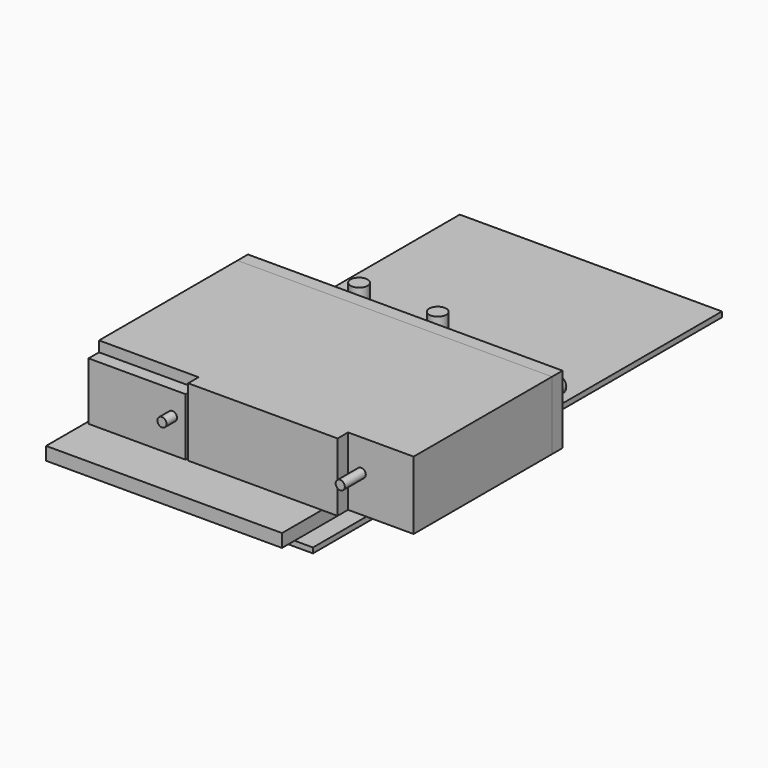
from build123d import *

# Parameters (mm, degrees)
CYLINDER001_R             = 3.25
CYLINDER001_DEPTH         = 10
CYLINDER_R                = 3.25
CYLINDER_DEPTH            = 10
BOX_W                     = 100
BOX_H                     = 195
BOX_DEPTH                 = 2
CYLINDER005_R             = 1.75
CYLINDER005_DEPTH         = 10
CYLINDER004_R             = 1.75
CYLINDER004_DEPTH         = 10
BOX005_W                  = 40
BOX005_H                  = 17
BOX005_DEPTH              = 18
BOX004_W                  = 19
BOX004_H                  = 6.5
BOX004_DEPTH              = 18
BOX003_W                  = 7
BOX003_H                  = 5
BOX003_DEPTH              = 6
CYLINDER002_R             = 3.125
CYLINDER002_DEPTH         = 18.5
BOX001_W                  = 66
BOX001_H                  = 120
BOX001_DEPTH              = 26
CYLINDER003_R             = 3.125
CYLINDER003_DEPTH         = 18.5
BOX002_W                  = 5.6
BOX002_H                  = 57
BOX002_DEPTH              = 26
FUSION002_PLACEMENT_ANGLE = 270
CYLINDER006_R             = 3.25
CYLINDER006_DEPTH         = 30
CYLINDER007_R             = 3.25
CYLINDER007_DEPTH         = 30
BOX006_W                  = 16
BOX006_H                  = 39.5
BOX006_DEPTH              = 17
BOX008_W                  = 120
BOX008_H                  = 5
BOX008_DEPTH              = 26
BOX009_W                  = 90
BOX009_H                  = 5
BOX009_DEPTH              = 114
BOX010_W                  = 37
BOX010_H                  = 5
BOX010_DEPTH              = 22


with BuildPart() as screwhole1:
    # Cylinder001 → Cylinder001 (new body)
    with BuildSketch(Plane(origin=(40, 97, -3), x_dir=(1, 0, 0), z_dir=(0, 0, 1))):
        Circle(CYLINDER001_R)
    extrude(amount=CYLINDER001_DEPTH)


with BuildPart() as screwhole0:
    # Cylinder → Cylinder (new body)
    with BuildSketch(Plane(origin=(70, 97, -4), x_dir=(1, 0, 0), z_dir=(0, 0, 1))):
        Circle(CYLINDER_R)
    extrude(amount=CYLINDER_DEPTH)


with BuildPart() as wall001:
    # Box → Box (new body)
    with BuildSketch(Plane.XY):
        with Locations((50, 97.5)):
            Rectangle(BOX_W, BOX_H)
    extrude(amount=BOX_DEPTH)

    # Cut: cut ScrewHole0
    add(screwhole0.part, mode=Mode.SUBTRACT)

    # Cut001: cut ScrewHole1
    add(screwhole1.part, mode=Mode.SUBTRACT)


with BuildPart() as wall001_1:
    # Cut001 placement: moved
    add(wall001.part.moved(Location((154, 0, -29))))


with BuildPart() as screw2:
    # Cylinder005 → Cylinder005 (new body)
    with BuildSketch(Plane(origin=(0, 20, 14), x_dir=(0, 0, 1), z_dir=(-1, 0, 0))):
        Circle(CYLINDER005_R)
    extrude(amount=CYLINDER005_DEPTH)


with BuildPart() as screw1:
    # Cylinder004 → Cylinder004 (new body)
    with BuildSketch(Plane(origin=(0, 88, 13), x_dir=(0, 0, 1), z_dir=(-1, 0, 0))):
        Circle(CYLINDER004_R)
    extrude(amount=CYLINDER004_DEPTH)


with BuildPart() as cube004:
    # Box005 → Box005 (new body)
    with BuildSketch(Plane(origin=(0, 103, 4), x_dir=(1, 0, 0), z_dir=(0, 0, 1))):
        with Locations((20, 8.5)):
            Rectangle(BOX005_W, BOX005_H)
    extrude(amount=BOX005_DEPTH)


with BuildPart() as cube003:
    # Box004 → Box004 (new body)
    with BuildSketch(Plane(origin=(40, 113.5, 4), x_dir=(1, 0, 0), z_dir=(0, 0, 1))):
        with Locations((9.5, 3.25)):
            Rectangle(BOX004_W, BOX004_H)
    extrude(amount=BOX004_DEPTH)


with BuildPart() as fusion001:
    # Box003 → Box003 (new body)
    with BuildSketch(Plane(origin=(59, 115, 10), x_dir=(1, 0, 0), z_dir=(0, 0, 1))):
        with Locations((3.5, 2.5)):
            Rectangle(BOX003_W, BOX003_H)
    extrude(amount=BOX003_DEPTH)

    # Fusion001: union Cube004, Cube003
    add(cube004.part)
    add(cube003.part)


with BuildPart() as cylinder:
    # Cylinder002 → Cylinder002 (new body)
    with BuildSketch(Plane(origin=(66, 12.5, 12), x_dir=(0, 0, -1), z_dir=(1, 0, 0))):
        Circle(CYLINDER002_R)
    extrude(amount=CYLINDER002_DEPTH)


with BuildPart() as cube:
    # Box001 → Box001 (new body)
    with BuildSketch(Plane.XY):
        with Locations((33, 60)):
            Rectangle(BOX001_W, BOX001_H)
    extrude(amount=BOX001_DEPTH)


with BuildPart() as cylinder001:
    # Cylinder003 → Cylinder003 (new body)
    with BuildSketch(Plane(origin=(66, 100.5, 12), x_dir=(0, 0, -1), z_dir=(1, 0, 0))):
        Circle(CYLINDER003_R)
    extrude(amount=CYLINDER003_DEPTH)


with BuildPart() as fusion002:
    # Box002 → Box002 (new body)
    with BuildSketch(Plane(origin=(-5, 25, 0), x_dir=(1, 0, 0), z_dir=(0, 0, 1))):
        with Locations((2.8, 28.5)):
            Rectangle(BOX002_W, BOX002_H)
    extrude(amount=BOX002_DEPTH)

    # Fusion: union Cylinder, Cube, Cylinder001
    add(cylinder.part)
    add(cube.part)
    add(cylinder001.part)

    # Cut002: cut Fusion001
    add(fusion001.part, mode=Mode.SUBTRACT)

    # Fusion002: union Screw2, Screw1
    add(screw2.part)
    add(screw1.part)


with BuildPart() as fusion002_1:
    # Fusion002 placement: moved
    add(fusion002.part.moved(Location((278, 18, -22))).rotate(Axis((278, 18, -22), (0, 0, -1)), FUSION002_PLACEMENT_ANGLE))


with BuildPart() as screwhole002:
    # Cylinder006 → Cylinder006 (new body)
    with BuildSketch(Plane(origin=(224, 97, -27), x_dir=(1, 0, 0), z_dir=(0, 0, 1))):
        Circle(CYLINDER006_R)
    extrude(amount=CYLINDER006_DEPTH)


with BuildPart() as screwhole003:
    # Cylinder007 → Cylinder007 (new body)
    with BuildSketch(Plane(origin=(194, 97, -27), x_dir=(1, 0, 0), z_dir=(0, 0, 1))):
        Circle(CYLINDER007_R)
    extrude(amount=CYLINDER007_DEPTH)


with BuildPart() as cube005:
    # Box006 → Box006 (new body)
    with BuildSketch(Plane(origin=(158, 18, -17.5), x_dir=(1, 0, 0), z_dir=(0, 0, 1))):
        with Locations((8, 19.75)):
            Rectangle(BOX006_W, BOX006_H)
    extrude(amount=BOX006_DEPTH)


with BuildPart() as cube007:
    # Box008 → Box008 (new body)
    with BuildSketch(Plane(origin=(158, 84, -22), x_dir=(1, 0, 0), z_dir=(0, 0, 1))):
        with Locations((60, 2.5)):
            Rectangle(BOX008_W, BOX008_H)
    extrude(amount=BOX008_DEPTH)


with BuildPart() as cube008:
    # Box009 → Box009 (new body)
    with BuildSketch(Plane(origin=(157, -6, -22), x_dir=(1, 0, 0), z_dir=(0, 1, 0))):
        with Locations((45, 2.5)):
            Rectangle(BOX009_W, BOX009_H)
    extrude(amount=BOX009_DEPTH)


with BuildPart() as cube009:
    # Box010 → Box010 (new body)
    with BuildSketch(Plane(origin=(158, 13, -22), x_dir=(1, 0, 0), z_dir=(0, 0, 1))):
        with Locations((18.5, 2.5)):
            Rectangle(BOX010_W, BOX010_H)
    extrude(amount=BOX010_DEPTH)


solid = Compound([wall001_1.part, fusion002_1.part, screwhole002.part, screwhole003.part, cube005.part, cube007.part, cube008.part, cube009.part])
